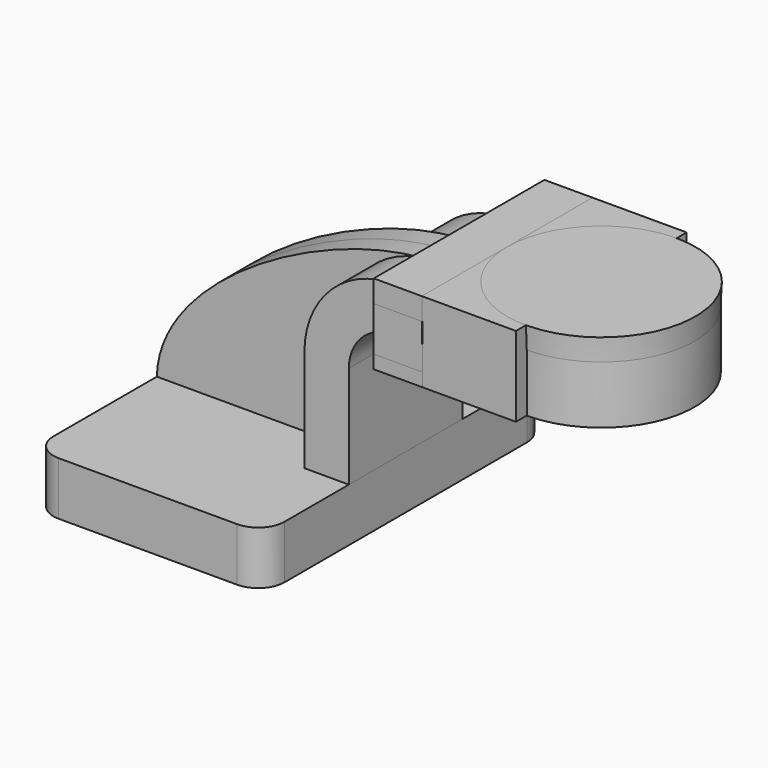
from build123d import *

# Parameters (mm, degrees)
F1_DEPTH = 63.5
F2_DEPTH = 25.4
F3_DEPTH = 38.1
F4_DEPTH = 38.1
F6_DEPTH = 7.9375
F7_DEPTH = 38.1
F8_R     = 9.398


with BuildPart() as f1:
    # F0 (on Front) → F1 (new body, symmetric)
    with BuildSketch(Plane.XZ):
        Polygon((25.4, 9.525), (-41.275, 9.525), (-41.275, -9.525), (41.275, -9.525), (41.275, 9.525), align=None)
    extrude(amount=F1_DEPTH, both=True)

    # F8
    f8_edges = [f1.edges().sort_by_distance(p)[0] for p in [
        (-41.275, -63.5, 0),
        (41.275, -63.5, 0),
        (-41.275, 63.5, 0),
        (41.275, 63.5, 0),
    ]]
    fillet(f8_edges, radius=F8_R)


with BuildPart() as f2:
    # F0 (on Front) → F2 (new body, symmetric)
    with BuildSketch(Plane.XZ):
        with BuildLine():
            Line((25.4, 46.0502), (25.4, 9.525))
            Line((25.4, 9.525), (41.275, 9.525))
            Line((41.275, 9.525), (41.275, 46.0502))
            ThreePointArc((41.275, 46.0502), (45.9246798487, 57.2755201513), (57.15, 61.9252))
            Line((57.15, 61.9252), (60.325, 61.9252))
            Line((60.325, 61.9252), (60.325, 77.8002))
            Line((60.325, 77.8002), (57.15, 77.8002))
            add(Edge.make_bspline(
                [(55.2503842192, 77.7433216494), (55.8913637683, 77.7721512684), (56.5247262294, 77.7911657134), (57.15, 77.8002)],
                knots=[117.6858667866, 117.6858667866, 117.6858667866, 117.6858667866, 119.7872428936, 119.7872428936, 119.7872428936, 119.7872428936], degree=3))
            ThreePointArc((55.2503842192, 77.7433216494), (34.0375001239, 67.8188666904), (25.4, 46.0502))
        make_face()
    extrude(amount=F2_DEPTH, both=True)


with BuildPart() as f3:
    # F0 (on Front) → F3 (new body, symmetric)
    with BuildSketch(Plane.XZ):
        Polygon((111.125, 85.725), (77.4890035391, 85.725), (77.7988448334, 77.8002), (77.7988448334, 61.9252), (77.7988448334, 57.15), (111.125, 57.15), align=None)
        Polygon((77.4890035391, 85.725), (77.574932858, 77.8002), (77.7988448334, 77.8002), align=None)
    extrude(amount=F3_DEPTH, both=True)


with BuildPart() as f3b:
    # F0 (on Front) → F3, piece 2 (new body, symmetric)
    with BuildSketch(Plane.XZ):
        Polygon((77.574932858, 77.8002), (60.325, 77.8002), (60.325, 61.9252), (77.7470669104, 61.9252), align=None)
    extrude(amount=F3_DEPTH, both=True)


with BuildPart() as f4:
    # F0 (on Front) → F4 (new body, symmetric)
    with BuildSketch(Plane.XZ):
        Polygon((77.7470669104, 61.9252), (60.325, 61.9252), (60.325, 57.15), (77.7988448334, 57.15), align=None)
    extrude(amount=F4_DEPTH, both=True)


with BuildPart() as f5:
    # F0 (on Front) → F5 (revolve)
    with BuildSketch(Plane.XZ):
        Polygon((111.125, 85.725), (77.4890035391, 85.725), (77.7988448334, 77.8002), (77.7988448334, 61.9252), (77.7988448334, 57.15), (111.125, 57.15), align=None)
    revolve(axis=Axis((111.125, 0, 71.4375), (0, 0, -1)))


with BuildPart() as f6:
    # F0 (on Front) → F6 (new body, symmetric)
    with BuildSketch(Plane.XZ):
        with BuildLine():
            add(Edge.make_bspline(
                [(-41.275, 9.525), (-40.4354595684, 43.7291708073), (19.3528437533, 76.1287421905), (55.2503842192, 77.7433216494)],
                knots=[0, 0, 0, 0, 117.6858667866, 117.6858667866, 117.6858667866, 117.6858667866], degree=3))
            Line((-41.275, 9.525), (25.4, 9.525))
            Line((25.4, 9.525), (25.4, 46.0502))
            ThreePointArc((25.4, 46.0502), (34.0375001239, 67.8188666904), (55.2503842192, 77.7433216494))
        make_face()
    extrude(amount=F6_DEPTH, both=True)


with BuildPart() as f7:
    # F0 (on Front) → F7 (new body, symmetric)
    with BuildSketch(Plane.XZ):
        Polygon((60.325, 85.725), (60.325, 77.8002), (77.574932858, 77.8002), (77.4890035391, 85.725), align=None)
    extrude(amount=F7_DEPTH, both=True)


solid = Compound([f1.part, f2.part, f3.part, f3b.part, f4.part, f5.part, f6.part, f7.part])
